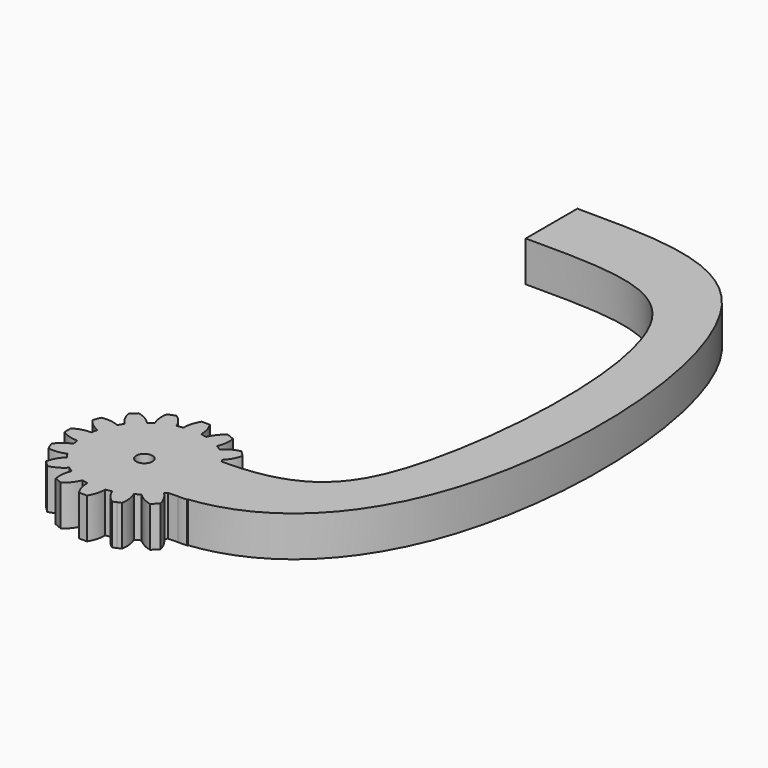
from build123d import *

# Parameters (mm, degrees)
F1_DEPTH = 5
F2_R     = 1
F3_DEPTH = 5
F5_DEPTH = 5


with BuildPart() as f1:
    # F0 (on Top) → F1 (new body)
    with BuildSketch(Plane.XY):
        with BuildLine():
            ThreePointArc((7.4206173165, -1.0883191822), (7.4801280027, -0.5456052265), (7.5, 0))
            ThreePointArc((7.5, 0), (7.4801280027, 0.5456052265), (7.4206173165, 1.0883191822))
            ThreePointArc((7.4206173165, 1.0883191822), (7.355889603, 1.4631774151), (7.2722381774, 1.8342714877))
            ThreePointArc((7.2722381774, 1.8342714877), (6.9290964938, 2.8701257427), (6.4392747372, 3.8452231222))
            ThreePointArc((6.4392747372, 3.8452231222), (6.2360220923, 4.1667767476), (6.0167266989, 4.4776109513))
            ThreePointArc((6.0167266989, 4.4776109513), (5.3033008589, 5.3033008589), (4.4776109513, 6.0167266989))
            ThreePointArc((4.4776109513, 6.0167266989), (4.1667767476, 6.2360220923), (3.8452231222, 6.4392747372))
            ThreePointArc((3.8452231222, 6.4392747372), (2.8701257427, 6.9290964938), (1.8342714877, 7.2722381774))
            ThreePointArc((1.8342714877, 7.2722381774), (1.4631774151, 7.355889603), (1.0883191822, 7.4206173165))
            ThreePointArc((1.0883191822, 7.4206173165), (0.5456052265, 7.4801280027), (0, 7.5))
            ThreePointArc((0, 7.5), (-0.5456052265, 7.4801280027), (-1.0883191822, 7.4206173165))
            ThreePointArc((-1.0883191822, 7.4206173165), (-1.4631774151, 7.355889603), (-1.8342714877, 7.2722381774))
            ThreePointArc((-1.8342714877, 7.2722381774), (-2.8701257427, 6.9290964938), (-3.8452231222, 6.4392747372))
            ThreePointArc((-3.8452231222, 6.4392747372), (-4.1667767476, 6.2360220923), (-4.4776109513, 6.0167266989))
            ThreePointArc((-4.4776109513, 6.0167266989), (-5.3033008589, 5.3033008589), (-6.0167266989, 4.4776109513))
            ThreePointArc((-6.0167266989, 4.4776109513), (-6.2360220923, 4.1667767476), (-6.4392747372, 3.8452231222))
            ThreePointArc((-6.4392747372, 3.8452231222), (-6.9290964938, 2.8701257427), (-7.2722381774, 1.8342714877))
            ThreePointArc((-7.2722381774, 1.8342714877), (-7.355889603, 1.4631774151), (-7.4206173165, 1.0883191822))
            ThreePointArc((-7.4206173165, 1.0883191822), (-7.5, 0), (-7.4206173165, -1.0883191822))
            ThreePointArc((-7.4206173165, -1.0883191822), (-7.355889603, -1.4631774151), (-7.2722381774, -1.8342714877))
            ThreePointArc((-7.2722381774, -1.8342714877), (-6.9290964938, -2.8701257427), (-6.4392747372, -3.8452231222))
            ThreePointArc((-6.4392747372, -3.8452231222), (-6.2360220923, -4.1667767476), (-6.0167266989, -4.4776109513))
            ThreePointArc((-6.0167266989, -4.4776109513), (-5.3033008589, -5.3033008589), (-4.4776109513, -6.0167266989))
            ThreePointArc((-4.4776109513, -6.0167266989), (-4.1667767476, -6.2360220923), (-3.8452231222, -6.4392747372))
            ThreePointArc((-3.8452231222, -6.4392747372), (-2.8701257427, -6.9290964938), (-1.8342714877, -7.2722381774))
            ThreePointArc((-1.8342714877, -7.2722381774), (-1.4631774151, -7.355889603), (-1.0883191822, -7.4206173165))
            ThreePointArc((-1.0883191822, -7.4206173165), (0, -7.5), (1.0883191822, -7.4206173165))
            ThreePointArc((1.0883191822, -7.4206173165), (1.4631774151, -7.355889603), (1.8342714877, -7.2722381774))
            ThreePointArc((1.8342714877, -7.2722381774), (2.8701257427, -6.9290964938), (3.8452231222, -6.4392747372))
            ThreePointArc((3.8452231222, -6.4392747372), (4.1667767476, -6.2360220923), (4.4776109513, -6.0167266989))
            ThreePointArc((4.4776109513, -6.0167266989), (5.3033008589, -5.3033008589), (6.0167266989, -4.4776109513))
            ThreePointArc((6.0167266989, -4.4776109513), (6.2360220923, -4.1667767476), (6.4392747372, -3.8452231222))
            ThreePointArc((6.4392747372, -3.8452231222), (6.9290964938, -2.8701257427), (7.2722381774, -1.8342714877))
            ThreePointArc((7.2722381774, -1.8342714877), (7.355889603, -1.4631774151), (7.4206173165, -1.0883191822))
        make_face()
        with BuildLine():
            ThreePointArc((0.5, -9.5), (0.9498278009, -8.5043518229), (1.0883191822, -7.4206173165))
            ThreePointArc((1.0883191822, -7.4206173165), (0, -7.5), (-1.0883191822, -7.4206173165))
            ThreePointArc((-1.0883191822, -7.4206173165), (-0.9498278009, -8.5043518229), (-0.5, -9.5))
            Line((-0.5, -9.5), (0, -9.5))
            Line((0, -9.5), (0.5, -9.5))
        make_face()
        with BuildLine():
            ThreePointArc((4.0974323737, -8.5855138427), (4.1320010103, -7.4935132234), (3.8452231222, -6.4392747372))
            ThreePointArc((3.8452231222, -6.4392747372), (2.8701257427, -6.9290964938), (1.8342714877, -7.2722381774))
            ThreePointArc((1.8342714877, -7.2722381774), (2.376948081, -8.2204799494), (3.1735528412, -8.968197275))
            Line((3.1735528412, -8.968197275), (3.6354926075, -8.7768555589))
            Line((3.6354926075, -8.7768555589), (4.0974323737, -8.5855138427))
        make_face()
        with BuildLine():
            ThreePointArc((8.968197275, -3.1735528412), (8.2204799494, -2.376948081), (7.2722381774, -1.8342714877))
            ThreePointArc((7.2722381774, -1.8342714877), (6.9290964938, -2.8701257427), (6.4392747372, -3.8452231222))
            ThreePointArc((6.4392747372, -3.8452231222), (7.4935132234, -4.1320010103), (8.5855138427, -4.0974323737))
            Line((8.5855138427, -4.0974323737), (8.7768555589, -3.6354926075))
            Line((8.7768555589, -3.6354926075), (8.968197275, -3.1735528412))
        make_face()
        with BuildLine():
            ThreePointArc((7.4206173165, 1.0883191822), (7.4801280027, 0.5456052265), (7.5, 0))
            ThreePointArc((7.5, 0), (7.4801280027, -0.5456052265), (7.4206173165, -1.0883191822))
            ThreePointArc((7.4206173165, -1.0883191822), (8.5043518229, -0.9498278009), (9.5, -0.5))
            Line((9.5, -0.5), (9.5, 0))
            Line((9.5, 0), (9.5, 0.5))
            ThreePointArc((9.5, 0.5), (8.5043518229, 0.9498278009), (7.4206173165, 1.0883191822))
        make_face()
        with BuildLine():
            ThreePointArc((7.0710678119, -6.3639610307), (6.6851145225, -5.3418551646), (6.0167266989, -4.4776109513))
            ThreePointArc((6.0167266989, -4.4776109513), (5.3033008589, -5.3033008589), (4.4776109513, -6.0167266989))
            ThreePointArc((4.4776109513, -6.0167266989), (5.3418551646, -6.6851145225), (6.3639610307, -7.0710678119))
            Line((6.3639610307, -7.0710678119), (6.7175144213, -6.7175144213))
            Line((6.7175144213, -6.7175144213), (7.0710678119, -6.3639610307))
        make_face()
        with BuildLine():
            ThreePointArc((6.4392747372, 3.8452231222), (6.9290964938, 2.8701257427), (7.2722381774, 1.8342714877))
            ThreePointArc((7.2722381774, 1.8342714877), (8.2204799494, 2.376948081), (8.968197275, 3.1735528412))
            Line((8.968197275, 3.1735528412), (8.7768555589, 3.6354926075))
            Line((8.7768555589, 3.6354926075), (8.5855138427, 4.0974323737))
            ThreePointArc((8.5855138427, 4.0974323737), (7.4935132234, 4.1320010103), (6.4392747372, 3.8452231222))
        make_face()
        with BuildLine():
            ThreePointArc((4.4776109513, 6.0167266989), (5.3033008589, 5.3033008589), (6.0167266989, 4.4776109513))
            ThreePointArc((6.0167266989, 4.4776109513), (6.6851145225, 5.3418551646), (7.0710678119, 6.3639610307))
            Line((7.0710678119, 6.3639610307), (6.7175144213, 6.7175144213))
            Line((6.7175144213, 6.7175144213), (6.3639610307, 7.0710678119))
            ThreePointArc((6.3639610307, 7.0710678119), (5.3418551646, 6.6851145225), (4.4776109513, 6.0167266989))
        make_face()
        with BuildLine():
            ThreePointArc((1.8342714877, 7.2722381774), (2.8701257427, 6.9290964938), (3.8452231222, 6.4392747372))
            ThreePointArc((3.8452231222, 6.4392747372), (4.1320010103, 7.4935132234), (4.0974323737, 8.5855138427))
            Line((4.0974323737, 8.5855138427), (3.6354926075, 8.7768555589))
            Line((3.6354926075, 8.7768555589), (3.1735528412, 8.968197275))
            ThreePointArc((3.1735528412, 8.968197275), (2.376948081, 8.2204799494), (1.8342714877, 7.2722381774))
        make_face()
        with BuildLine():
            ThreePointArc((-3.1735528412, -8.968197275), (-2.376948081, -8.2204799494), (-1.8342714877, -7.2722381774))
            ThreePointArc((-1.8342714877, -7.2722381774), (-2.8701257427, -6.9290964938), (-3.8452231222, -6.4392747372))
            ThreePointArc((-3.8452231222, -6.4392747372), (-4.1320010103, -7.4935132234), (-4.0974323737, -8.5855138427))
            Line((-4.0974323737, -8.5855138427), (-3.6354926075, -8.7768555589))
            Line((-3.6354926075, -8.7768555589), (-3.1735528412, -8.968197275))
        make_face()
        with BuildLine():
            ThreePointArc((-6.3639610307, -7.0710678119), (-5.3418551646, -6.6851145225), (-4.4776109513, -6.0167266989))
            ThreePointArc((-4.4776109513, -6.0167266989), (-5.3033008589, -5.3033008589), (-6.0167266989, -4.4776109513))
            ThreePointArc((-6.0167266989, -4.4776109513), (-6.6851145225, -5.3418551646), (-7.0710678119, -6.3639610307))
            Line((-7.0710678119, -6.3639610307), (-6.7175144213, -6.7175144213))
            Line((-6.7175144213, -6.7175144213), (-6.3639610307, -7.0710678119))
        make_face()
        with BuildLine():
            ThreePointArc((-8.5855138427, -4.0974323737), (-7.4935132234, -4.1320010103), (-6.4392747372, -3.8452231222))
            ThreePointArc((-6.4392747372, -3.8452231222), (-6.9290964938, -2.8701257427), (-7.2722381774, -1.8342714877))
            ThreePointArc((-7.2722381774, -1.8342714877), (-8.2204799494, -2.376948081), (-8.968197275, -3.1735528412))
            Line((-8.968197275, -3.1735528412), (-8.7768555589, -3.6354926075))
            Line((-8.7768555589, -3.6354926075), (-8.5855138427, -4.0974323737))
        make_face()
        with BuildLine():
            ThreePointArc((-9.5, -0.5), (-8.5043518229, -0.9498278009), (-7.4206173165, -1.0883191822))
            ThreePointArc((-7.4206173165, -1.0883191822), (-7.5, 0), (-7.4206173165, 1.0883191822))
            ThreePointArc((-7.4206173165, 1.0883191822), (-8.5043518229, 0.9498278009), (-9.5, 0.5))
            Line((-9.5, 0.5), (-9.5, 0))
            Line((-9.5, 0), (-9.5, -0.5))
        make_face()
        with BuildLine():
            ThreePointArc((-7.2722381774, 1.8342714877), (-6.9290964938, 2.8701257427), (-6.4392747372, 3.8452231222))
            ThreePointArc((-6.4392747372, 3.8452231222), (-7.4935132234, 4.1320010103), (-8.5855138427, 4.0974323737))
            Line((-8.5855138427, 4.0974323737), (-8.7768555589, 3.6354926075))
            Line((-8.7768555589, 3.6354926075), (-8.968197275, 3.1735528412))
            ThreePointArc((-8.968197275, 3.1735528412), (-8.2204799494, 2.376948081), (-7.2722381774, 1.8342714877))
        make_face()
        with BuildLine():
            ThreePointArc((-6.0167266989, 4.4776109513), (-5.3033008589, 5.3033008589), (-4.4776109513, 6.0167266989))
            ThreePointArc((-4.4776109513, 6.0167266989), (-5.3418551646, 6.6851145225), (-6.3639610307, 7.0710678119))
            Line((-6.3639610307, 7.0710678119), (-6.7175144213, 6.7175144213))
            Line((-6.7175144213, 6.7175144213), (-7.0710678119, 6.3639610307))
            ThreePointArc((-7.0710678119, 6.3639610307), (-6.6851145225, 5.3418551646), (-6.0167266989, 4.4776109513))
        make_face()
        with BuildLine():
            ThreePointArc((-3.8452231222, 6.4392747372), (-2.8701257427, 6.9290964938), (-1.8342714877, 7.2722381774))
            ThreePointArc((-1.8342714877, 7.2722381774), (-2.376948081, 8.2204799494), (-3.1735528412, 8.968197275))
            Line((-3.1735528412, 8.968197275), (-3.6354926075, 8.7768555589))
            Line((-3.6354926075, 8.7768555589), (-4.0974323737, 8.5855138427))
            ThreePointArc((-4.0974323737, 8.5855138427), (-4.1320010103, 7.4935132234), (-3.8452231222, 6.4392747372))
        make_face()
        with BuildLine():
            ThreePointArc((-1.0883191822, 7.4206173165), (-0.5456052265, 7.4801280027), (0, 7.5))
            Line((0, 7.5), (0, 9.5))
            Line((0, 9.5), (-0.5, 9.5))
            ThreePointArc((-0.5, 9.5), (-0.9498278009, 8.5043518229), (-1.0883191822, 7.4206173165))
        make_face()
        with BuildLine():
            ThreePointArc((0, 7.5), (0.5456052265, 7.4801280027), (1.0883191822, 7.4206173165))
            ThreePointArc((1.0883191822, 7.4206173165), (0.9498278009, 8.5043518229), (0.5, 9.5))
            Line((0.5, 9.5), (0, 9.5))
            Line((0, 9.5), (0, 7.5))
        make_face()
    extrude(amount=F1_DEPTH)

    # F2 (on face) → F3 (cut)
    with BuildSketch(Plane.XY.offset(5)):
        Circle(F2_R)
    extrude(amount=-F3_DEPTH, mode=Mode.SUBTRACT)

    # F4 (on Top) → F5 (join, through all)
    with BuildSketch(Plane.XY):
        with BuildLine():
            Line((0, 67), (0, 59))
            add(Edge.make_bspline(
                [(0, 59), (10, 59), (25.4993254548, 59.0468729188), (23.9657868474, 14.0021486097), (16.2360220923, 4.1667767476), (6.2360220923, 4.1667767476)],
                knots=[0, 0, 0, 0, 0.3045418083, 0.7070898322, 1, 1, 1, 1], degree=3))
            Line((6.2360220923, 4.1667767476), (6.2360220923, -4.1667767476))
            add(Edge.make_bspline(
                [(0, 67), (10, 67), (29.5010820231, 66.8559685475), (33.105016404, 11.2567361372), (16.2360220923, -4.1667767476), (6.2360220923, -4.1667767476)],
                knots=[0, 0, 0, 0, 0.2901796827, 0.6908356956, 1, 1, 1, 1], degree=3))
        make_face()
    extrude(amount=F5_DEPTH)


solid = f1.part
